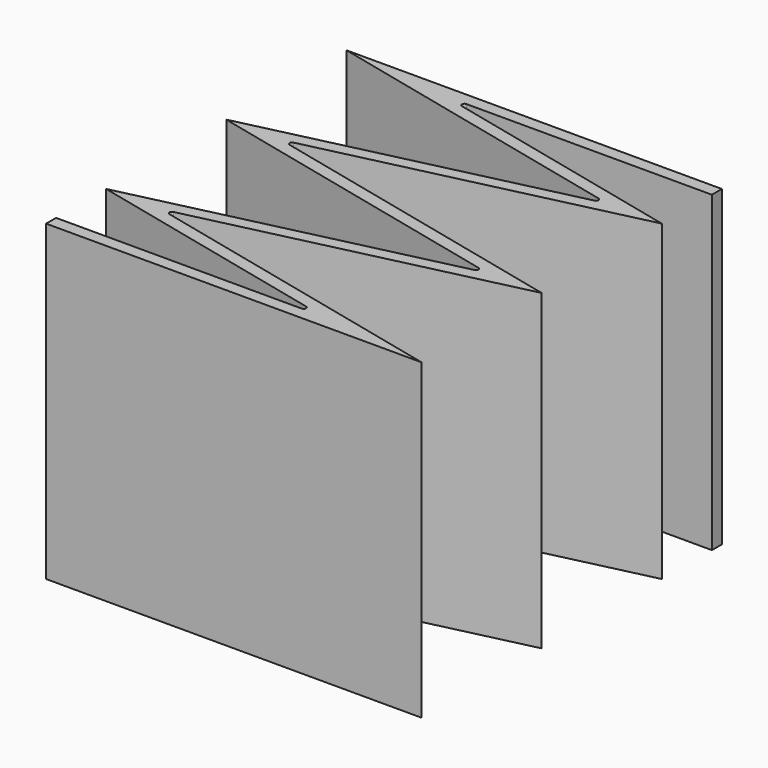
from build123d import *

# Parameters (mm, degrees)
F1_DEPTH = 25
F2_R     = 0.2


with BuildPart() as f1:
    # F0 (on Top) → F1 (new body)
    with BuildSketch(Plane.XY):
        Polygon((-30, 6), (-8.653967, 1), (-30, 1), (-30, 0), (0, 0), (-25.615239, 6), (0, 12), (-25.615239, 18), (0, 24), (-21.346033, 29), (0, 29), (0, 30), (-30, 30), (-4.384761, 24), (-30, 18), (-4.384761, 12), align=None)
    extrude(amount=F1_DEPTH)

    # F2
    f2_edges = [f1.edges().sort_by_distance(p)[0] for p in [
        (-21.346033, 29, 12.5),
        (-25.615239, 18, 12.5),
        (-25.615239, 6, 12.5),
        (-8.653967, 1, 12.5),
        (-4.384761, 12, 12.5),
        (-4.384761, 24, 12.5),
    ]]
    fillet(f2_edges, radius=F2_R)


solid = f1.part
